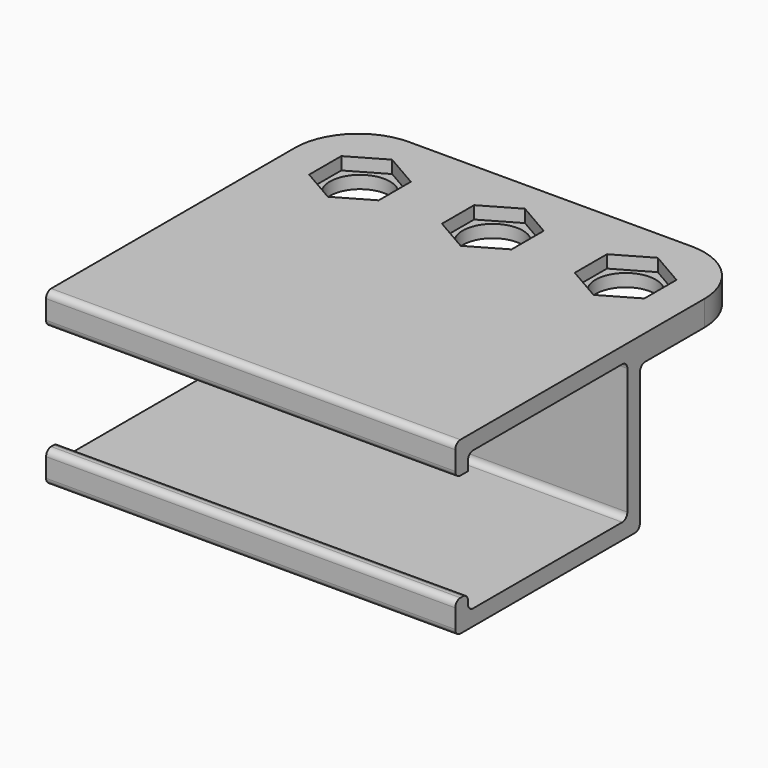
from build123d import *

# Parameters (mm, degrees)
SKETCH_W     = 64.701706
SKETCH_H     = 22.701706
PAD_DEPTH    = 2
SKETCH001_W  = 64.701706
SKETCH001_H  = 22.701706
SKETCH001_R  = 4.75
PAD001_DEPTH = 2
PAD002_DEPTH = 64.701706
FILLET_R     = 10
FILLET001_R  = 1


with BuildPart() as part:
    # Sketch → Pad (new body)
    with BuildSketch(Plane.XY):
        Rectangle(SKETCH_W, SKETCH_H)
        Polygon((0, 6.350853), (-5.5, 3.175426), (-5.5, -3.175426), (0, -6.350853), (5.5, -3.175426), (5.5, 3.175426), align=None, mode=Mode.SUBTRACT)
        Polygon((-21, 6.350853), (-26.5, 3.175426), (-26.5, -3.175426), (-21, -6.350853), (-15.5, -3.175426), (-15.5, 3.175426), align=None, mode=Mode.SUBTRACT)
        Polygon((21, 6.350853), (15.5, 3.175426), (15.5, -3.175426), (21, -6.350853), (26.5, -3.175426), (26.5, 3.175426), align=None, mode=Mode.SUBTRACT)
    extrude(amount=PAD_DEPTH)

    # Sketch001 (on Face23 of Pad) → Pad001 (join)
    with BuildSketch(Plane(origin=(0, 0, 0), x_dir=(1, 0, 0), z_dir=(0, 0, -1))):
        Rectangle(SKETCH001_W, SKETCH001_H)
        Circle(SKETCH001_R, mode=Mode.SUBTRACT)
        with Locations((21, 0)):
            Circle(SKETCH001_R, mode=Mode.SUBTRACT)
        with Locations((-21, 0)):
            Circle(SKETCH001_R, mode=Mode.SUBTRACT)
    extrude(amount=PAD001_DEPTH)

    # Sketch002 (on Face28 of Pad001) → Pad002 (join)
    with BuildSketch(Plane(origin=(-32.350853, 0, 0), x_dir=(0, -1, 0), z_dir=(-1, 0, 0))):
        Polygon((11.350853, 2), (11.350853, -25), (47.850853, -25), (47.850853, -20), (45.350853, -20), (45.350853, -22.5), (13.850853, -22.5), (13.850853, -0.5), (45.350853, -0.5), (45.350853, -3), (47.850853, -3), (47.850853, 2), align=None)
    extrude(amount=-PAD002_DEPTH)

    # Fillet
    fillet_edges = [part.edges().sort_by_distance(p)[0] for p in [
        (32.350853, 11.350853, 0),
        (-32.350853, 11.350853, 0),
    ]]
    fillet(fillet_edges, radius=FILLET_R)

    # Fillet001
    fillet001_edges = [part.edges().sort_by_distance(p)[0] for p in [
        (0, -47.850853, 2),
        (0, -47.850853, -3),
        (0, -45.350853, -20),
        (0, -47.850853, -20),
        (0, -47.850853, -25),
        (0, -13.850853, -22.5),
        (0, -13.850853, -0.5),
        (0, -45.350853, -0.5),
        (0, -45.350853, -22.5),
        (0, -11.350853, -25),
        (0, -11.350853, -2),
    ]]
    fillet(fillet001_edges, radius=FILLET001_R)


solid = part.part
